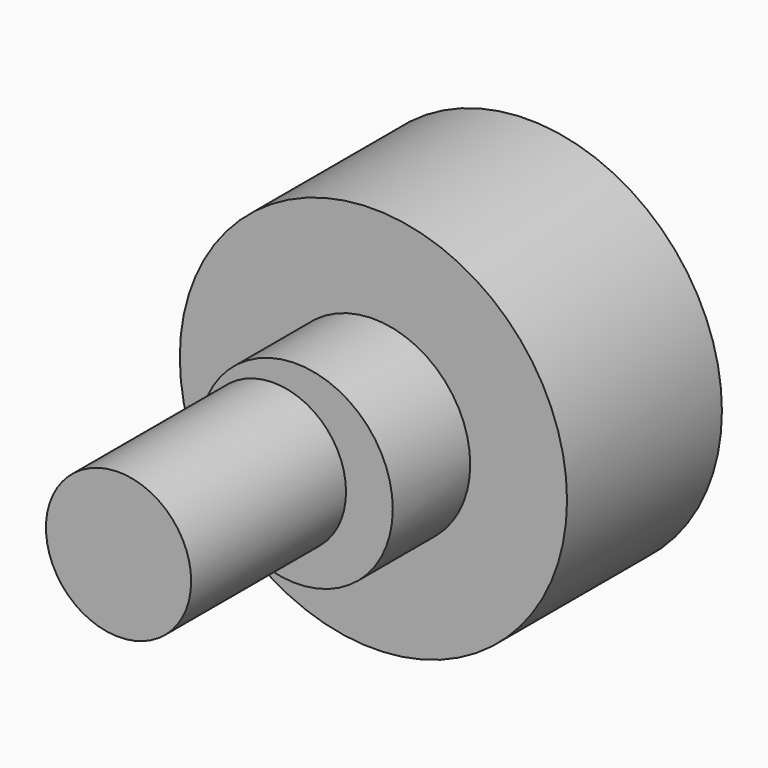
from build123d import *

# Parameters (mm, degrees)
F0_R     = 12.7
F0_R_2   = 6.35
F0_R_3   = 4.7625
F1_DEPTH = 12.7
F2_DEPTH = 19.05
F3_DEPTH = 31.75


with BuildPart() as f1:
    # F0 (on Front) → F1 (new body)
    with BuildSketch(Plane.XZ):
        Circle(F0_R)
        Circle(F0_R_2, mode=Mode.SUBTRACT)
        with Locations((-1.478096, 0)):
            Circle(F0_R_3)
        Circle(F0_R_2)
        with Locations((-1.478096, 0)):
            Circle(F0_R_3, mode=Mode.SUBTRACT)
    extrude(amount=F1_DEPTH)

    # F0 (on Front) → F2 (join)
    with BuildSketch(Plane.XZ):
        with Locations((-1.478096, 0)):
            Circle(F0_R_3)
        Circle(F0_R_2)
        with Locations((-1.478096, 0)):
            Circle(F0_R_3, mode=Mode.SUBTRACT)
    extrude(amount=F2_DEPTH)

    # F0 (on Front) → F3 (join)
    with BuildSketch(Plane.XZ):
        with Locations((-1.478096, 0)):
            Circle(F0_R_3)
    extrude(amount=F3_DEPTH)


solid = f1.part
